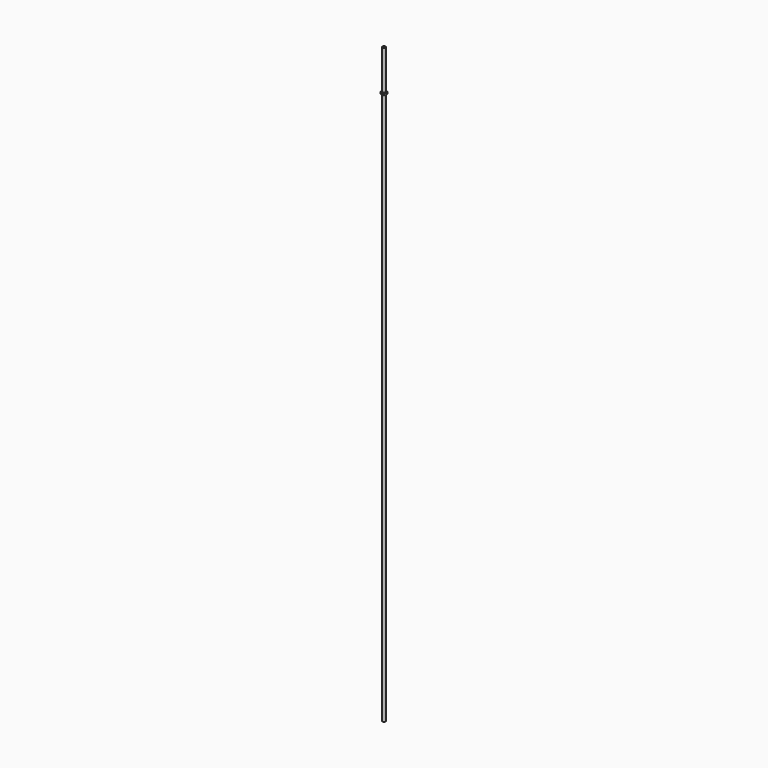
from build123d import *

# Parameters (mm, degrees)
F0_R     = 1.5875
F1_DEPTH = 292.1
F3_R     = 2.54
F4_DEPTH = 1.905
F5_R     = 0.254


with BuildPart() as f1:
    # F0 (on Top) → F1 (new body, symmetric)
    with BuildSketch(Plane.XY):
        Circle(F0_R)
    extrude(amount=F1_DEPTH, both=True)

    # F3 (on offset) → F4 (join)
    with BuildSketch(Plane.XY.offset(251.46)):
        Circle(F3_R)
    extrude(amount=F4_DEPTH)

    # F5
    f5_edges = [f1.edges().sort_by_distance(p)[0] for p in [
        (-2.54, 0, 253.365),
        (-2.54, 0, 251.46),
    ]]
    fillet(f5_edges, radius=F5_R)


solid = f1.part
